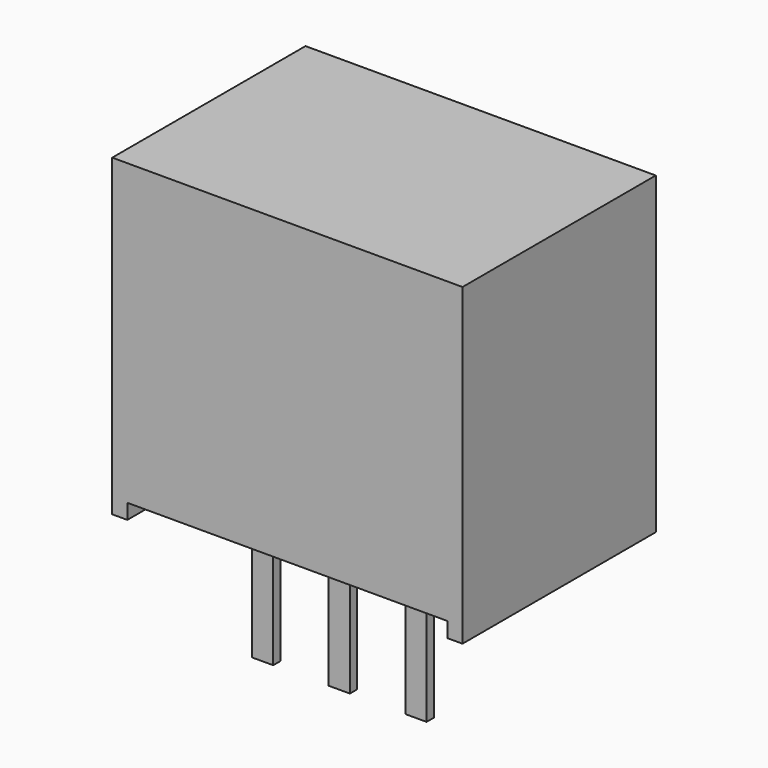
from build123d import *

# Parameters (mm, degrees)
PAD_DEPTH    = 4
SKETCH001_W  = 0.7
SKETCH001_H  = 0.3
PAD001_DEPTH = 4.6


with BuildPart() as part:
    # Sketch → Pad (new body, symmetric)
    with BuildSketch(Plane.XZ):
        Polygon((-5.3, -5.2), (-5.3, -4.7), (5.3, -4.7), (5.3, -5.2), (5.8, -5.2), (5.8, 5.2), (-5.8, 5.2), (-5.8, -5.2), align=None)
    extrude(amount=PAD_DEPTH, both=True)

    # Sketch001 (on Face2 of Pad) → Pad001 (join)
    with BuildSketch(Plane(origin=(0, 0, -4.7), x_dir=(1, 0, 0), z_dir=(0, 0, -1))):
        with Locations((-2.54, 1.7)):
            Rectangle(SKETCH001_W, SKETCH001_H)
        with Locations((0, 1.7)):
            Rectangle(SKETCH001_W, SKETCH001_H)
        with Locations((2.54, 1.7)):
            Rectangle(SKETCH001_W, SKETCH001_H)
    extrude(amount=PAD001_DEPTH)


solid = part.part
